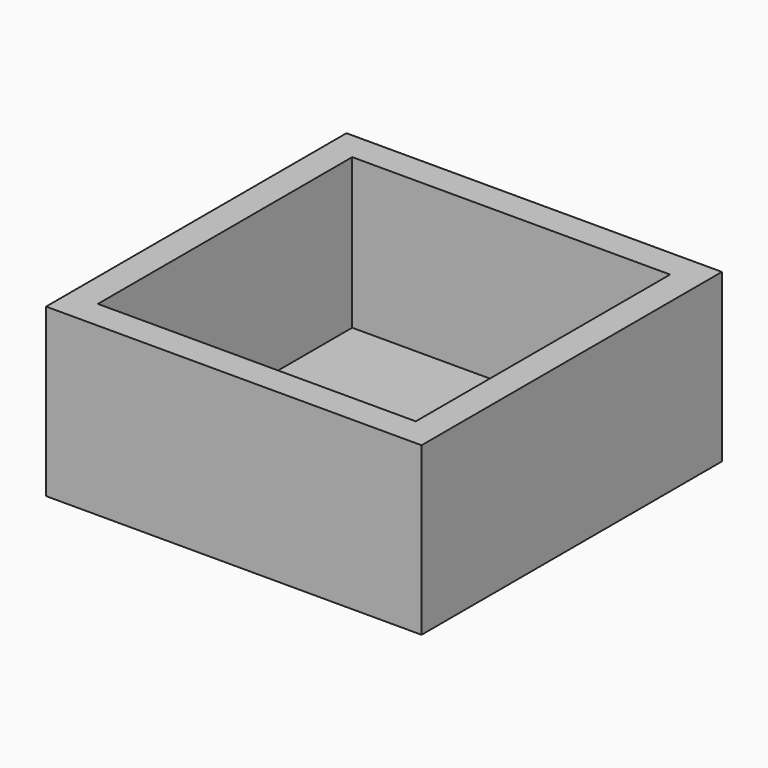
from build123d import *

# Parameters (mm, degrees)
BOX001_W     = 38.1
BOX001_H     = 38.1
BOX001_DEPTH = 18
BOX_W        = 45
BOX_H        = 45
BOX_DEPTH    = 20


with BuildPart() as cube001:
    # Box001 → Box001 (new body)
    with BuildSketch(Plane(origin=(3.45, 3.45, 2), x_dir=(1, 0, 0), z_dir=(0, 0, 1))):
        with Locations((19.05, 19.05)):
            Rectangle(BOX001_W, BOX001_H)
    extrude(amount=BOX001_DEPTH)


with BuildPart() as cut:
    # Box → Box (new body)
    with BuildSketch(Plane.XY):
        with Locations((22.5, 22.5)):
            Rectangle(BOX_W, BOX_H)
    extrude(amount=BOX_DEPTH)

    # Cut: cut Cube001
    add(cube001.part, mode=Mode.SUBTRACT)


solid = cut.part
